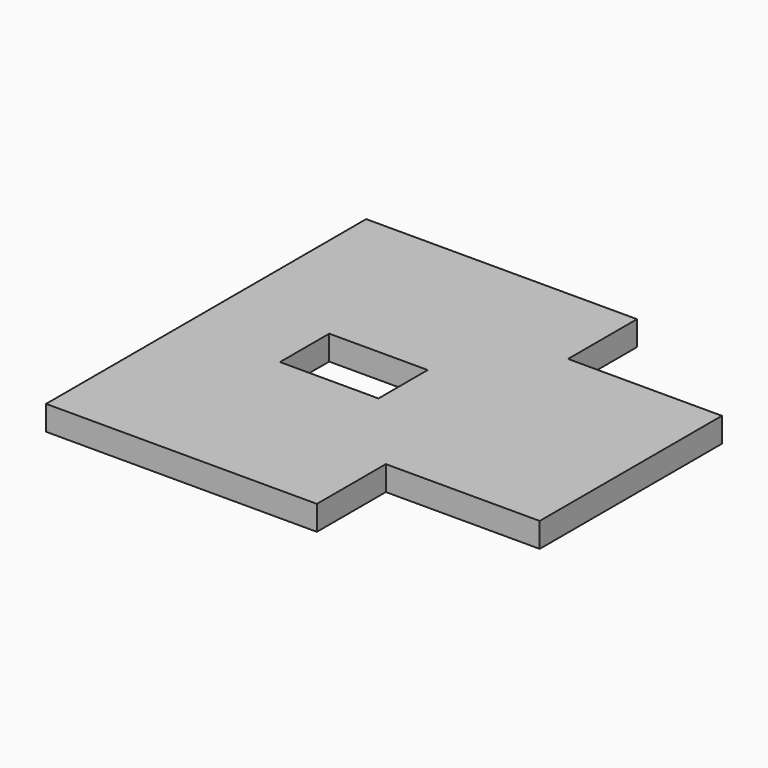
from build123d import *

# Parameters (mm, degrees)
PAD002_DEPTH    = 0.4
SKETCH010_W     = 1.6
SKETCH010_H     = 1
POCKET006_DEPTH = 0.401


with BuildPart() as contact:
    # Sketch009 (on Face1 of ShapeBinder) → Pad002 (new body)
    with BuildSketch(Plane(origin=(0, 0, 0), x_dir=(1, 0, 0), z_dir=(0, 0, -1))):
        Polygon((36.05, 11.4), (38.55, 11.4), (38.55, 12.8), (42.95, 12.8), (42.95, 6.3), (38.55, 6.3), (38.55, 7.7), (36.05, 7.7), align=None)
    extrude(amount=-PAD002_DEPTH)

    # Sketch010 (on Face9 of Pad002) → Pocket006 (cut, through all)
    with BuildSketch(Plane(origin=(0, 0, 0), x_dir=(1, 0, 0), z_dir=(0, 0, -1))):
        with Locations((40.55, 9.55)):
            Rectangle(SKETCH010_W, SKETCH010_H)
    extrude(amount=-POCKET006_DEPTH, mode=Mode.SUBTRACT)


with BuildPart() as contact_mirrored:
    # mirror: instance of contact
    add(contact.part.mirror(Plane(origin=(0, 19.85, 7), x_dir=(0, 1, 0), z_dir=(-1, 0, 0))))


with BuildPart() as contact_mirrored_mirrored:
    # mirror001: instance of contact (mirrored)
    add(contact_mirrored.part.mirror(Plane(origin=(-38.55, 0, 15), x_dir=(-1, 0, 0), z_dir=(0, -1, 0))))


solid = contact_mirrored_mirrored.part
